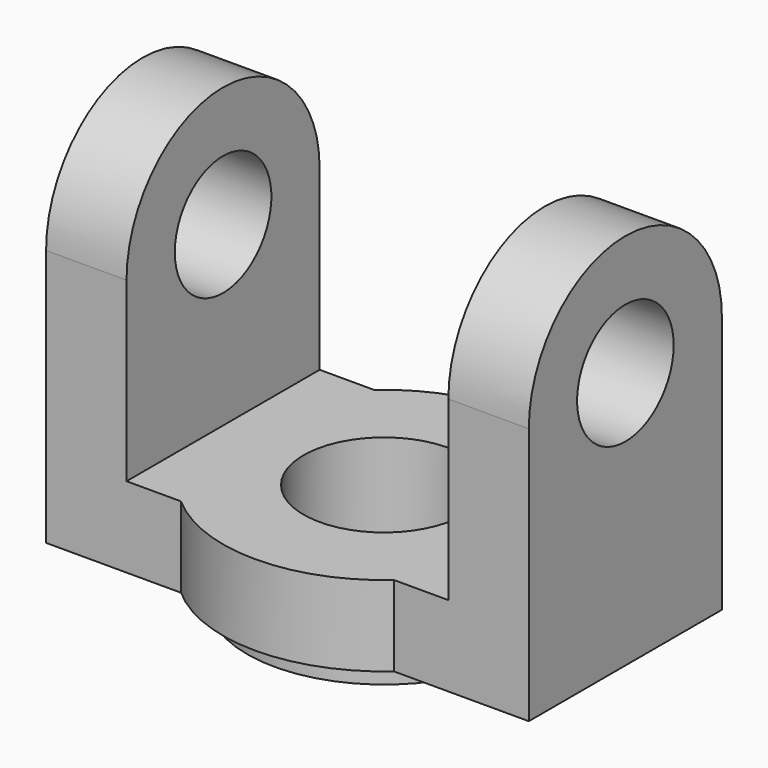
from build123d import *

# Parameters (mm, degrees)
F0_W      = 40
F0_H      = 10
F1_DEPTH  = 15
F2_R      = 7.5
F2_W      = 30
F2_H      = 10
F3_DEPTH  = 10
F4_R      = 7.5
F4_W      = 30
F4_H      = 10
F5_DEPTH  = 10
F7_DEPTH  = 10
F8_R      = 10
F9_DEPTH  = 10.001
F10_R     = 17
F10_R_2   = 10
F11_DEPTH = 3


with BuildPart() as f1:
    # F0 (on Front) → F1 (new body, symmetric)
    with BuildSketch(Plane.XZ):
        with Locations((0, 5)):
            Rectangle(F0_W, F0_H)
    extrude(amount=F1_DEPTH, both=True)

    # F2 (on face) → F3 (join)
    with BuildSketch(Plane(origin=(-20, 0, 0), x_dir=(0, -1, 0), z_dir=(-1, 0, 0))):
        with BuildLine():
            Line((-15, 32), (-15, 10))
            Line((-15, 10), (15, 10))
            Line((15, 10), (15, 32))
            ThreePointArc((15, 32), (0, 47), (-15, 32))
        make_face()
        with Locations((0, 32)):
            Circle(F2_R, mode=Mode.SUBTRACT)
        with Locations((0, 5)):
            Rectangle(F2_W, F2_H)
    extrude(amount=F3_DEPTH)

    # F4 (on face) → F5 (join)
    with BuildSketch(Plane.YZ.offset(20)):
        with BuildLine():
            Line((-15, 32), (-15, 10))
            Line((-15, 10), (15, 10))
            Line((15, 10), (15, 32))
            ThreePointArc((15, 32), (0, 47), (-15, 32))
        make_face()
        with Locations((0, 32)):
            Circle(F4_R, mode=Mode.SUBTRACT)
        with Locations((0, 5)):
            Rectangle(F4_W, F4_H)
    extrude(amount=F5_DEPTH)

    # F6 (on face) → F7 (join)
    with BuildSketch(Plane.XY.offset(10)):
        with BuildLine():
            ThreePointArc((13.2287565553, 15), (0, 20), (-13.2287565553, 15))
            Line((-13.2287565553, 15), (13.2287565553, 15))
        make_face()
        with BuildLine():
            Line((13.2287565553, -15), (-13.2287565553, -15))
            ThreePointArc((-13.2287565553, -15), (0, -20), (13.2287565553, -15))
        make_face()
    extrude(amount=-F7_DEPTH)

    # F8 (on face) → F9 (cut, through all)
    with BuildSketch(Plane.XY.offset(10)):
        Circle(F8_R)
    extrude(amount=-F9_DEPTH, mode=Mode.SUBTRACT)

    # F10 (on face) → F11 (join)
    with BuildSketch(Plane(origin=(0, 0, 0), x_dir=(1, 0, 0), z_dir=(0, 0, -1))):
        Circle(F10_R)
        Circle(F10_R_2, mode=Mode.SUBTRACT)
    extrude(amount=F11_DEPTH)


solid = f1.part
